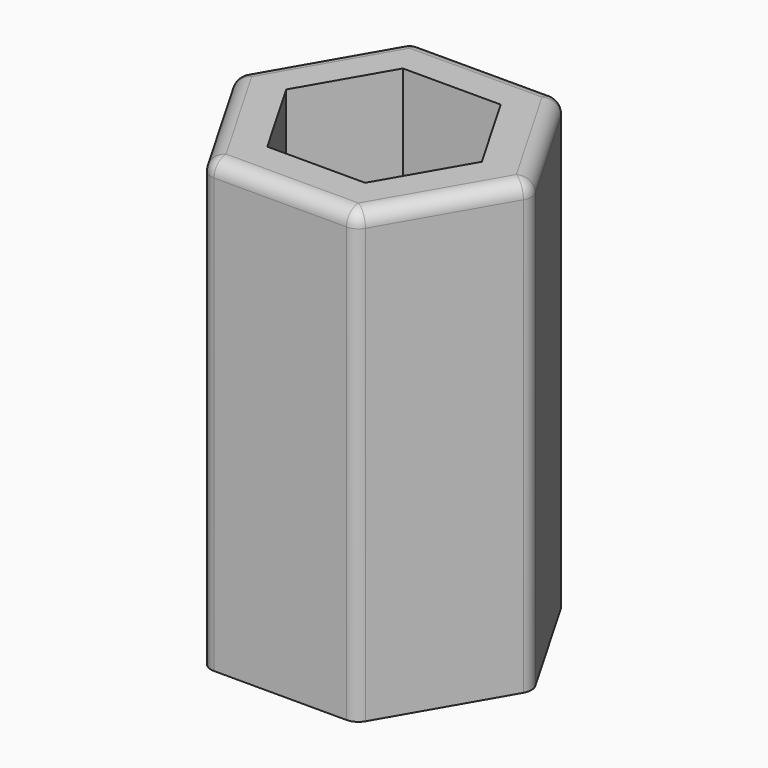
from build123d import *

# Parameters (mm, degrees)
F1_DEPTH = 30
F2_R     = 1


with BuildPart() as f1:
    # F0 (on Top) → F1 (new body)
    with BuildSketch(Plane.XY):
        Polygon((10, 0), (5, 8.660254), (-5, 8.660254), (-10, 0), (-5, -8.660254), (5, -8.660254), align=None)
        Polygon((3.267949, -5.660254), (-3.267949, -5.660254), (-6.535898, 0), (-3.267949, 5.660254), (3.267949, 5.660254), (6.535898, 0), align=None, mode=Mode.SUBTRACT)
    extrude(amount=F1_DEPTH)

    # F2
    f2_edges = [f1.edges().sort_by_distance(p)[0] for p in [
        (-5, -8.660254, 15),
        (0, -8.660254, 30),
        (5, -8.660254, 15),
        (7.5, -4.330127, 30),
        (10, 0, 15),
        (7.5, 4.330127, 30),
        (5, 8.660254, 15),
        (0, 8.660254, 30),
        (-5, 8.660254, 15),
        (-7.5, 4.330127, 30),
        (-10, 0, 15),
        (-7.5, -4.330127, 30),
    ]]
    fillet(f2_edges, radius=F2_R)


solid = f1.part
